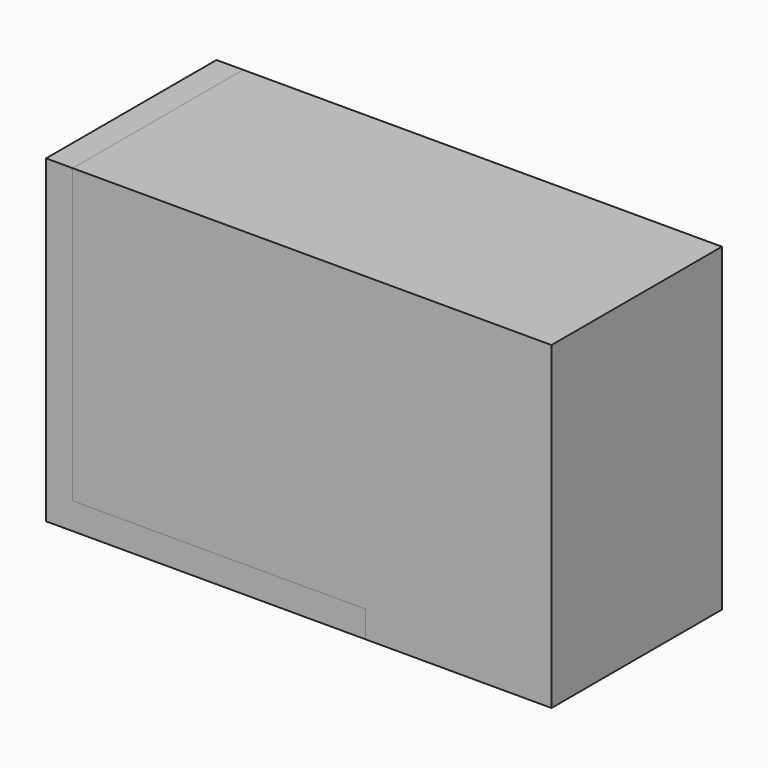
from build123d import *

# Parameters (mm, degrees)
F1_DEPTH = 25.4
F2_DEPTH = 25.4


with BuildPart() as f1:
    # F0 (on Front) → F1 (new body)
    with BuildSketch(Plane.XZ):
        Polygon((-60.262176, 0), (-22.162176, 0), (-22.162176, 3.175), (-57.087176, 3.175), (-57.087176, 38.1), (-60.262176, 38.1), align=None)
    extrude(amount=F1_DEPTH)


with BuildPart() as f2:
    # F0 (on Front) → F2 (new body)
    with BuildSketch(Plane.XZ):
        Polygon((-22.162176, 0), (0, 0), (0, 38.1), (-57.087176, 38.1), (-57.087176, 3.175), (-22.162176, 3.175), align=None)
    extrude(amount=F2_DEPTH)


solid = Compound([f1.part, f2.part])
